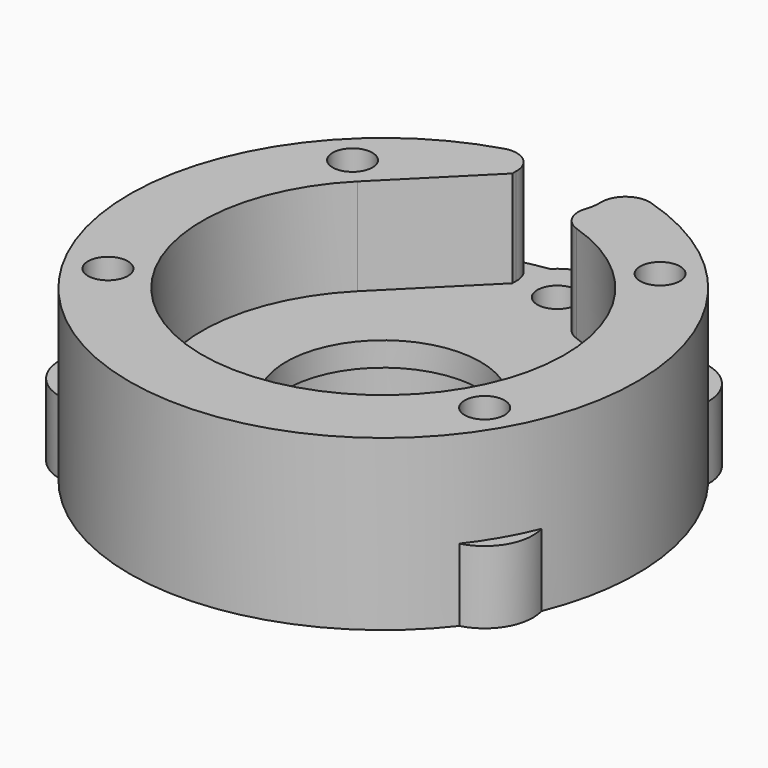
from build123d import *

# Parameters (mm, degrees)
SKETCH_R        = 21
PAD_DEPTH       = 14
SKETCH001_R     = 9.05
POCKET_DEPTH    = 4
SKETCH002_R     = 8.05
POCKET001_DEPTH = 14.001
SKETCH003_R     = 15
POCKET002_DEPTH = 8.001
POCKET003_DEPTH = 8
SKETCH005_R     = 3.5
POCKET004_DEPTH = 8
FILLET_R        = 2
SKETCH006_R     = 4
PAD001_DEPTH    = 6
SKETCH007_R     = 1.65
POCKET005_DEPTH = 14.001


with BuildPart() as part:
    # Sketch → Pad (new body)
    with BuildSketch(Plane.XY):
        Circle(SKETCH_R)
    extrude(amount=PAD_DEPTH)

    # Sketch001 (on DatumPlane) → Pocket (cut)
    with BuildSketch(Plane.XY):
        Circle(SKETCH001_R)
    extrude(amount=POCKET_DEPTH, mode=Mode.SUBTRACT)

    # Sketch002 (on DatumPlane) → Pocket001 (cut, through all)
    with BuildSketch(Plane.XY):
        Circle(SKETCH002_R)
    extrude(amount=POCKET001_DEPTH, mode=Mode.SUBTRACT)

    # Sketch003 (on DatumPlane) → Pocket002 (cut, through all)
    with BuildSketch(Plane.XY.offset(6)):
        Circle(SKETCH003_R)
    extrude(amount=POCKET002_DEPTH, mode=Mode.SUBTRACT)

    # Sketch004 (on DatumPlane) → Pocket003 (cut)
    with BuildSketch(Plane.XY.offset(14)):
        Polygon((-10.606602, 10.606602), (0, 10.606602), (0, 21.213203), align=None)
    extrude(amount=-POCKET003_DEPTH, mode=Mode.SUBTRACT)

    # Sketch005 (on DatumPlane) → Pocket004 (cut)
    with BuildSketch(Plane.XY.offset(14)):
        with Locations((0, 18)):
            Circle(SKETCH005_R)
    extrude(amount=-POCKET004_DEPTH, mode=Mode.SUBTRACT)

    # Fillet
    fillet_edges = [part.edges().sort_by_distance(p)[0] for p in [
        (-1.945126, 20.909722, 10),
        (1.945126, 20.909722, 10),
        (1.643223, 14.909722, 10),
    ]]
    fillet(fillet_edges, radius=FILLET_R)

    # Sketch006 (on DatumPlane) → Pad001 (join)
    with BuildSketch(Plane.XY):
        with Locations((0, 18)):
            Circle(SKETCH006_R)
        with Locations((-12.727922, 12.727922)):
            Circle(SKETCH006_R)
        with Locations((12.727922, 12.727922)):
            Circle(SKETCH006_R)
        with Locations((-15.588457, -9)):
            Circle(SKETCH006_R)
        with Locations((15.588457, -9)):
            Circle(SKETCH006_R)
    extrude(amount=PAD001_DEPTH)

    # Sketch007 (on DatumPlane) → Pocket005 (cut, through all)
    with BuildSketch(Plane.XY):
        with Locations((-12.727922, 12.727922)):
            Circle(SKETCH007_R)
        with Locations((12.727922, 12.727922)):
            Circle(SKETCH007_R)
        with Locations((0, 18)):
            Circle(SKETCH007_R)
        with Locations((-15.588457, -9)):
            Circle(SKETCH007_R)
        with Locations((15.588457, -9)):
            Circle(SKETCH007_R)
    extrude(amount=POCKET005_DEPTH, mode=Mode.SUBTRACT)


solid = part.part
